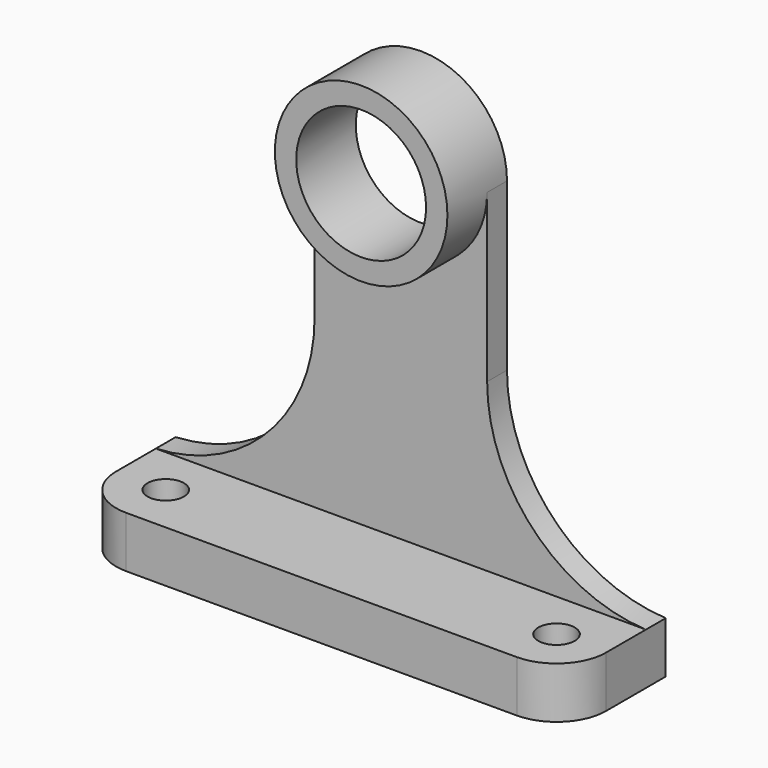
from build123d import *

# Parameters (mm, degrees)
F1_DEPTH = 6.35
F0_R     = 16.612306
F2_DEPTH = 19.05
F3_DEPTH = 31.75
F4_R     = 4.66369
F5_DEPTH = 13.156878


with BuildPart() as f1:
    # F0 (on Front) → F1 (new body)
    with BuildSketch(Plane.XZ):
        with BuildLine():
            Line((22.07386, -42.633548), (22.07386, 0))
            ThreePointArc((22.07386, 0), (0, -22.07386), (-22.07386, 0))
            Line((-22.07386, 0), (-22.07386, -42.633548))
            ThreePointArc((-22.07386, -42.633548), (-33.852086, -72.074216), (-62.68657, -85.267097))
            Line((-62.68657, -85.267097), (-22.07386, -85.267097))
            Line((-22.07386, -85.267097), (22.07386, -85.267097))
            Line((22.07386, -85.267097), (62.68657, -85.267097))
            ThreePointArc((62.68657, -85.267097), (33.852086, -72.074216), (22.07386, -42.633548))
        make_face()
    extrude(amount=F1_DEPTH)

    # F0 (on Front) → F2 (join)
    with BuildSketch(Plane.XZ):
        with BuildLine():
            ThreePointArc((-22.07386, 0), (0, -22.07386), (22.07386, 0))
            ThreePointArc((22.07386, 0), (0, 22.07386), (-22.07386, 0))
        make_face()
        Circle(F0_R, mode=Mode.SUBTRACT)
    extrude(amount=F2_DEPTH)

    # F0 (on Front) → F3 (join)
    with BuildSketch(Plane.XZ):
        Polygon((62.68657, -98.422974), (62.68657, -85.267097), (22.07386, -85.267097), (-22.07386, -85.267097), (-62.68657, -85.267097), (-62.68657, -98.422974), align=None)
    extrude(amount=F3_DEPTH)

    # F4 (on face) → F5 (cut, through all)
    with BuildSketch(Plane.XY.offset(-85.267097)):
        with Locations((-49.98657, -19.05)):
            Circle(F4_R)
        with Locations((49.98657, -19.05)):
            Circle(F4_R)
        with BuildLine():
            Line((-62.68657, -19.05), (-62.68657, -31.75))
            Line((-62.68657, -31.75), (-49.98657, -31.75))
            ThreePointArc((-49.98657, -31.75), (-58.966826, -28.030256), (-62.68657, -19.05))
        make_face()
        with BuildLine():
            ThreePointArc((62.68657, -19.05), (58.966826, -28.030256), (49.98657, -31.75))
            Line((49.98657, -31.75), (62.68657, -31.75))
            Line((62.68657, -31.75), (62.68657, -19.05))
        make_face()
    extrude(amount=-F5_DEPTH, mode=Mode.SUBTRACT)


solid = f1.part
